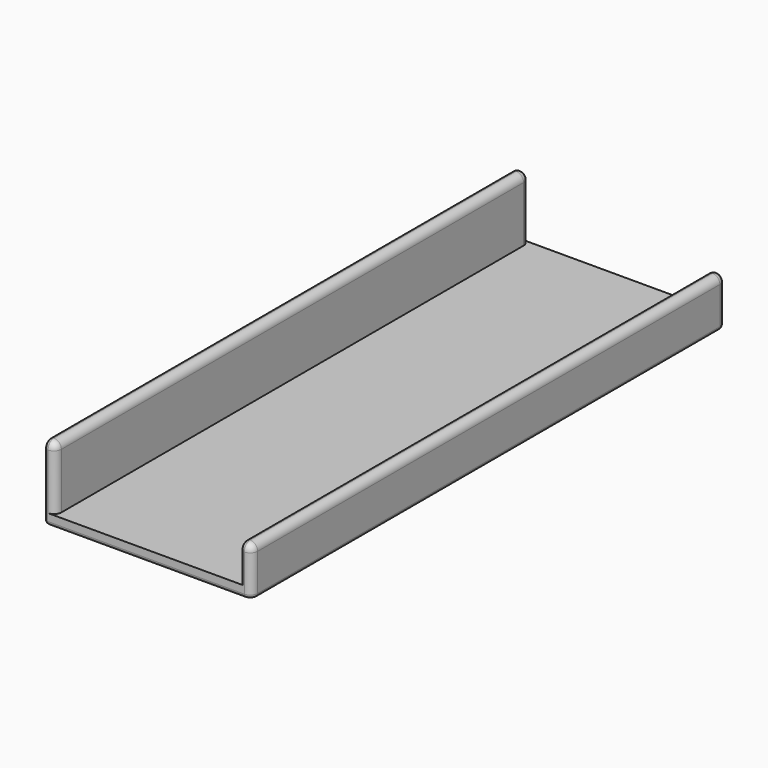
from build123d import *

# Parameters (mm, degrees)
PAD_DEPTH   = 160
FILLET_R    = 2
FILLET001_R = 2
FILLET002_R = 0.9
FILLET003_R = 1


with BuildPart() as part:
    # Sketch → Pad (new body)
    with BuildSketch(Plane.XZ):
        Polygon((-13, 20), (-13, 0), (43, 0), (43, 13), (40, 13), (40, 3), (-10, 3), (-10, 20), align=None)
    extrude(amount=PAD_DEPTH)

    # Fillet
    fillet_edges = [part.edges().sort_by_distance(p)[0] for p in [
        (-11.5, -160, 20),
        (41.5, -160, 13),
        (-11.5, 0, 20),
        (41.5, 0, 13),
    ]]
    fillet(fillet_edges, radius=FILLET_R)

    # Fillet001
    fillet001_edges = [part.edges().sort_by_distance(p)[0] for p in [
        (43, -80, 13),
        (-10, -80, 20),
    ]]
    fillet(fillet001_edges, radius=FILLET001_R)

    # Fillet002
    fillet002_edges = [part.edges().sort_by_distance(p)[0] for p in [
        (40, -80, 13),
        (-13, -80, 20),
    ]]
    fillet(fillet002_edges, radius=FILLET002_R)

    # Fillet003
    fillet003_edges = [part.edges().sort_by_distance(p)[0] for p in [
        (14.45, -160, 0),
    ]]
    fillet(fillet003_edges, radius=FILLET003_R)


solid = part.part
